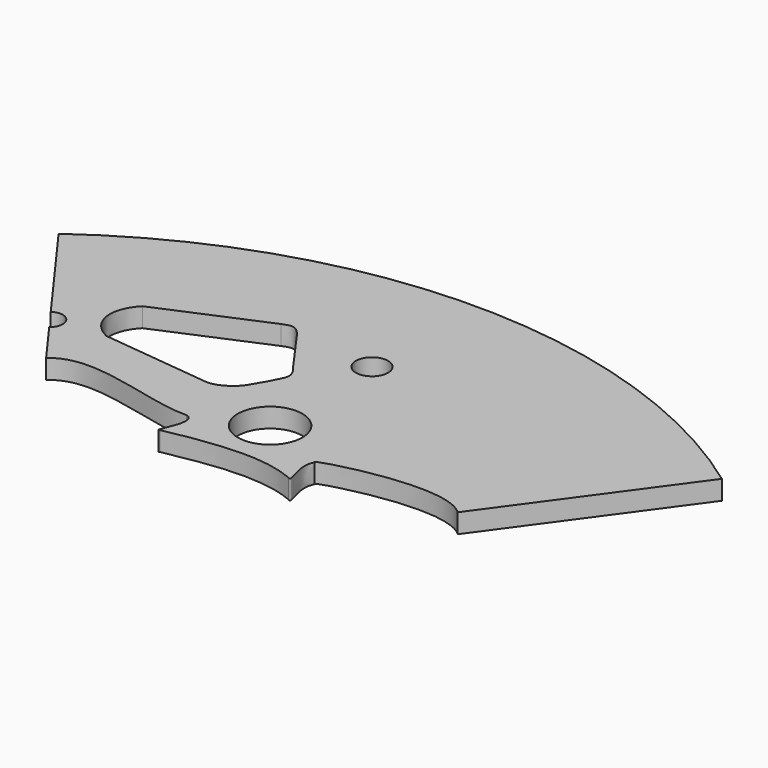
from build123d import *

# Parameters (mm, degrees)
F1_DEPTH  = 3
F2_R      = 2
F3_DEPTH  = 13.4
F5_DEPTH  = 15.1
F7_DEPTH  = 28
F9_DEPTH  = 40.9
F10_R     = 2.5
F11_DEPTH = 30.3
F12_DEPTH = 32.7


with BuildPart() as f1:
    # F0 (on Top) → F1 (new body)
    with BuildSketch(Plane.XY):
        with BuildLine():
            Line((0, 0), (51.43121, 70.788987))
            ThreePointArc((51.43121, 70.788987), (0, 87.5), (-51.43121, 70.788987))
            Line((-51.43121, 70.788987), (0, 0))
        make_face()
    extrude(amount=F1_DEPTH)

    # F2 (on Top) → F3 (cut)
    with BuildSketch(Plane.XY):
        with Locations((-38.219705, 52.576175)):
            Circle(F2_R)
    extrude(amount=F3_DEPTH, mode=Mode.SUBTRACT)

    # F4 (on Top) → F5 (cut)
    with BuildSketch(Plane.XY):
        with BuildLine():
            ThreePointArc((0, 42.5), (3.535534, 43.964466), (5, 47.5))
            ThreePointArc((5, 47.5), (-3.535534, 51.035534), (0, 42.5))
        make_face()
    extrude(amount=F5_DEPTH, mode=Mode.SUBTRACT)

    # F6 (on Top) → F7 (cut)
    with BuildSketch(Plane.XY):
        with BuildLine():
            add(Edge.make_bspline(
                [(-32.372009, 44.262763), (-27.721515, 48.913255), (-16.280954, 43.176574), (-9.652664, 43.336935)],
                knots=[0, 0, 0, 0, 22.738201, 22.738201, 22.738201, 22.738201], degree=3))
            Line((-32.372009, 44.262763), (0, 0))
            Line((0, 0), (32.459896, 43.336935))
            add(Edge.make_bspline(
                [(10.232204, 43.336935), (7.958638, 43.336935), (28.130125, 49.419351), (32.459896, 43.336935)],
                knots=[0, 0, 0, 0, 22.227692, 22.227692, 22.227692, 22.227692], degree=3))
            add(Edge.make_bspline(
                [(10.232204, 38.267672), (11.534555, 37.32701), (8.94931, 41.252229), (10.232204, 43.336935)],
                knots=[0, 0, 0, 0, 5.069263, 5.069263, 5.069263, 5.069263], degree=3))
            add(Edge.make_bspline(
                [(-9.652664, 38.267672), (-1.960609, 39.786551), (4.604817, 40.60315), (10.232204, 38.267672)],
                knots=[0, 0, 0, 0, 19.884868, 19.884868, 19.884868, 19.884868], degree=3))
            add(Edge.make_bspline(
                [(-9.652664, 43.336935), (-7.098308, 42.695489), (-10.790724, 37.418947), (-9.652664, 38.267672)],
                knots=[0, 0, 0, 0, 5.069263, 5.069263, 5.069263, 5.069263], degree=3))
        make_face()
    extrude(amount=F7_DEPTH, mode=Mode.SUBTRACT)

    # F8 (on Top) → F9 (cut)
    with BuildSketch(Plane.XY):
        with BuildLine():
            add(Edge.make_bspline(
                [(-31.646983, 62.285967), (-34.494214, 59.307128), (-33.847807, 55.272655), (-30.18681, 53.478997)],
                knots=[0, 0, 0, 0, 8.927196, 8.927196, 8.927196, 8.927196], degree=3))
            add(Edge.make_bspline(
                [(-30.18681, 53.478997), (-24.470332, 52.831151), (-18.69169, 52.237308), (-12.975213, 51.589462)],
                knots=[0, 0, 0, 0, 17.315005, 17.315005, 17.315005, 17.315005], degree=3))
            add(Edge.make_bspline(
                [(-12.975213, 51.589462), (-11.106356, 51.730501), (-9.275662, 53.076804), (-8.538607, 54.607607)],
                knots=[0, 0, 0, 0, 5.365881, 5.365881, 5.365881, 5.365881], degree=3))
            add(Edge.make_bspline(
                [(-6.528673, 58.304172), (-7.200886, 56.853276), (-7.715667, 55.865123), (-8.538607, 54.607607)],
                knots=[0, 0, 0, 0, 4.207662, 4.207662, 4.207662, 4.207662], degree=3))
            add(Edge.make_bspline(
                [(-7.48369, 61.318793), (-6.469775, 60.11533), (-6.048826, 59.233338), (-6.528673, 58.304172)],
                knots=[0, 0, 0, 0, 3.162278, 3.162278, 3.162278, 3.162278], degree=3))
            add(Edge.make_bspline(
                [(-12.531957, 68.392515), (-10.830528, 66.036878), (-9.185119, 63.67443), (-7.48369, 61.318793)],
                knots=[0, 0, 0, 0, 8.690371, 8.690371, 8.690371, 8.690371], degree=3))
            add(Edge.make_bspline(
                [(-15.627065, 69.123868), (-14.042395, 69.763878), (-13.65924, 69.634747), (-12.531957, 68.392515)],
                knots=[0, 0, 0, 0, 3.180341, 3.180341, 3.180341, 3.180341], degree=3))
            add(Edge.make_bspline(
                [(-31.646983, 62.285967), (-26.30701, 64.565267), (-20.967037, 66.844568), (-15.627065, 69.123868)],
                knots=[0, 0, 0, 0, 17.418228, 17.418228, 17.418228, 17.418228], degree=3))
        make_face()
    extrude(amount=F9_DEPTH, mode=Mode.SUBTRACT)

    # F10 (on Top) → F11 (cut)
    with BuildSketch(Plane.XY):
        with Locations((0, 67.25)):
            Circle(F10_R)
    extrude(amount=F11_DEPTH, mode=Mode.SUBTRACT)

    # F8 (on Top) → F12 (cut)
    with BuildSketch(Plane.XY):
        with BuildLine():
            add(Edge.make_bspline(
                [(-31.646983, 62.285967), (-34.494214, 59.307128), (-33.847807, 55.272655), (-30.18681, 53.478997)],
                knots=[0, 0, 0, 0, 8.927196, 8.927196, 8.927196, 8.927196], degree=3))
            add(Edge.make_bspline(
                [(-30.18681, 53.478997), (-24.470332, 52.831151), (-18.69169, 52.237308), (-12.975213, 51.589462)],
                knots=[0, 0, 0, 0, 17.315005, 17.315005, 17.315005, 17.315005], degree=3))
            add(Edge.make_bspline(
                [(-12.975213, 51.589462), (-11.106356, 51.730501), (-9.275662, 53.076804), (-8.538607, 54.607607)],
                knots=[0, 0, 0, 0, 5.365881, 5.365881, 5.365881, 5.365881], degree=3))
            add(Edge.make_bspline(
                [(-6.528673, 58.304172), (-7.200886, 56.853276), (-7.715667, 55.865123), (-8.538607, 54.607607)],
                knots=[0, 0, 0, 0, 4.207662, 4.207662, 4.207662, 4.207662], degree=3))
            add(Edge.make_bspline(
                [(-7.48369, 61.318793), (-6.469775, 60.11533), (-6.048826, 59.233338), (-6.528673, 58.304172)],
                knots=[0, 0, 0, 0, 3.162278, 3.162278, 3.162278, 3.162278], degree=3))
            add(Edge.make_bspline(
                [(-12.531957, 68.392515), (-10.830528, 66.036878), (-9.185119, 63.67443), (-7.48369, 61.318793)],
                knots=[0, 0, 0, 0, 8.690371, 8.690371, 8.690371, 8.690371], degree=3))
            add(Edge.make_bspline(
                [(-15.627065, 69.123868), (-14.042395, 69.763878), (-13.65924, 69.634747), (-12.531957, 68.392515)],
                knots=[0, 0, 0, 0, 3.180341, 3.180341, 3.180341, 3.180341], degree=3))
            add(Edge.make_bspline(
                [(-31.646983, 62.285967), (-26.30701, 64.565267), (-20.967037, 66.844568), (-15.627065, 69.123868)],
                knots=[0, 0, 0, 0, 17.418228, 17.418228, 17.418228, 17.418228], degree=3))
        make_face()
    extrude(amount=F12_DEPTH, mode=Mode.SUBTRACT)


solid = f1.part
